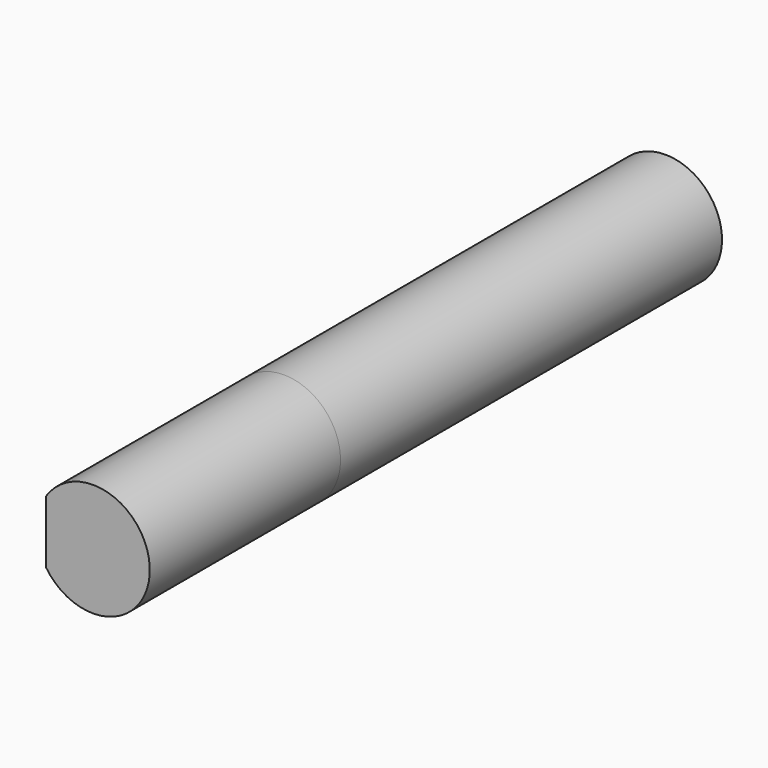
from build123d import *

# Parameters (mm, degrees)
F1_DEPTH = 25.4
F2_R     = 6.0325
F3_DEPTH = 50.8


with BuildPart() as f1:
    # F0 (on Front) → F1 (new body)
    with BuildSketch(Plane.XZ):
        with BuildLine():
            Line((-5.0165, 3.35049), (-5.0165, -3.35049))
            ThreePointArc((-5.0165, -3.35049), (6.0325, 0), (-5.0165, 3.35049))
        make_face()
    extrude(amount=F1_DEPTH)

    # F2 (on face) → F3 (join)
    with BuildSketch(Plane(origin=(0, 0, 0), x_dir=(-1, 0, 0), z_dir=(0, 1, 0))):
        Circle(F2_R)
    extrude(amount=F3_DEPTH)


solid = f1.part
